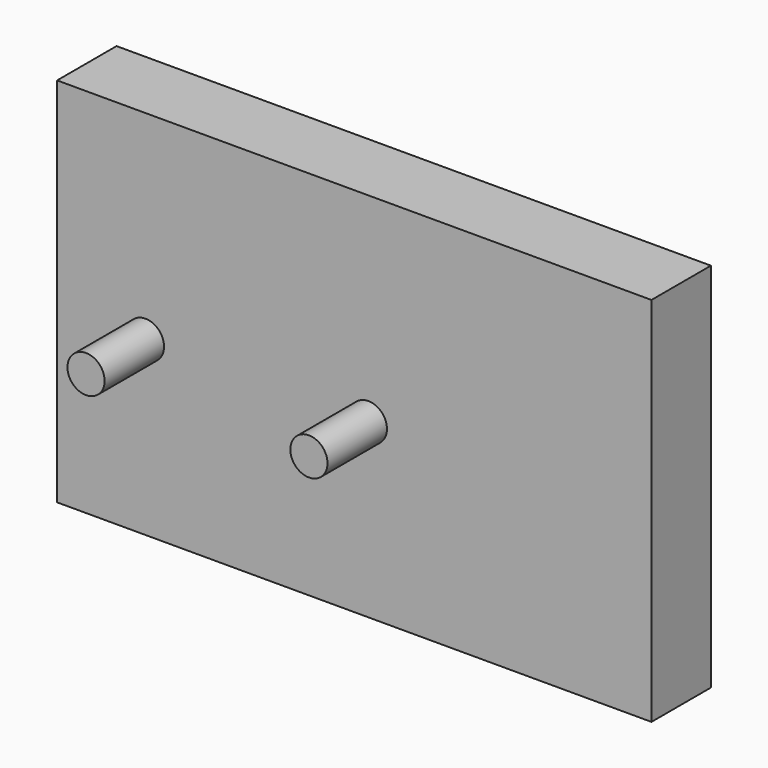
from build123d import *

# Parameters (mm, degrees)
F0_W     = 80
F0_H     = 50
F1_DEPTH = 10
F2_R     = 2.5
F3_DEPTH = 10
F5_DEPTH = 10


with BuildPart() as f1:
    # F0 (on Front) → F1 (new body)
    with BuildSketch(Plane.XZ):
        with Locations((18.104014, 1.864604)):
            Rectangle(F0_W, F0_H)
    extrude(amount=F1_DEPTH)

    # F2 (on face) → F3 (join)
    with BuildSketch(Plane.XZ.offset(10)):
        with Locations((-10, 0)):
            Circle(F2_R)
    extrude(amount=F3_DEPTH)

    # F4 (on face) → F5 (join)
    with BuildSketch(Plane.XZ.offset(10)):
        with BuildLine():
            ThreePointArc((17.5, 0), (20, -2.5), (22.5, 0))
            ThreePointArc((22.5, 0), (20, 2.5), (17.5, 0))
        make_face()
    extrude(amount=F5_DEPTH)


solid = f1.part
